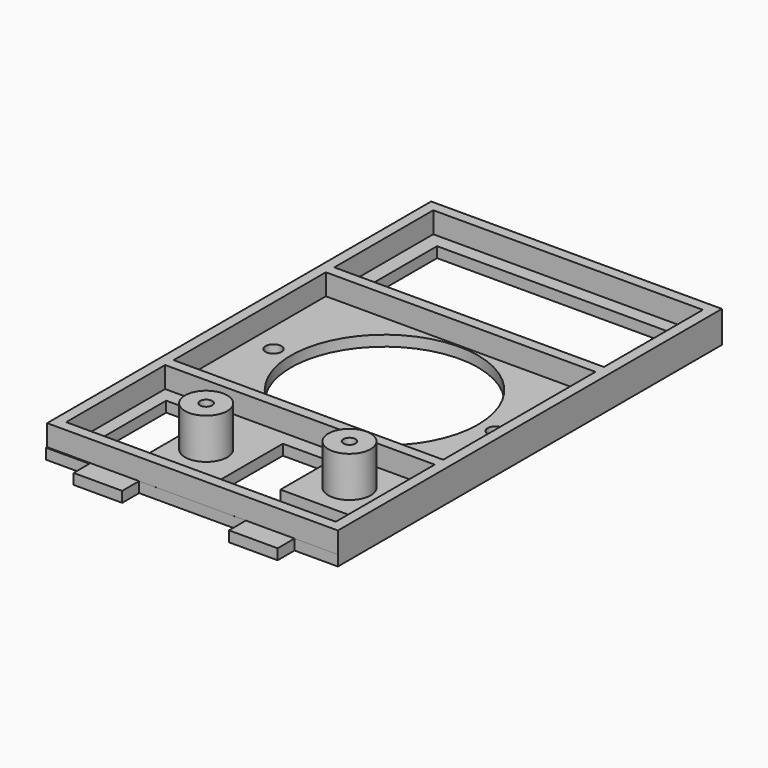
from build123d import *

# Parameters (mm, degrees)
SKETCH_R      = 17.7
SKETCH_R_2    = 1.5
PAD_DEPTH     = 2
SKETCH001_R   = 4
SKETCH001_R_2 = 1.15
PAD001_DEPTH  = 7.7
SKETCH002_W   = 55
SKETCH002_H   = 90.8
SKETCH002_W_2 = 51
SKETCH002_H_2 = 36
SKETCH002_H_3 = 23.4
PAD002_DEPTH  = 4
SKETCH003_W   = 45.416033
SKETCH003_H   = 18.722532
SKETCH003_W_2 = 8.527091
SKETCH003_H_2 = 17.424923
POCKET_DEPTH  = 2.001


with BuildPart() as part:
    # Sketch → Pad (new body)
    with BuildSketch(Plane.XY.offset(2)):
        Polygon((-19.3, 49.399), (-10.1, 49.399), (-10.1, 45.401), (10.1, 45.401), (10.1, 49.399), (19.3, 49.399), (19.3, 45.399), (27.5, 45.399), (27.5, -45.401), (19.3, -45.401), (19.3, -49.399), (10.1, -49.399), (10.1, -45.401), (-10.1, -45.401), (-10.1, -49.399), (-19.3, -49.399), (-19.3, -45.649884), (-27.5, -45.649884), (-27.5, 45.399), (-19.3, 45.399), align=None)
        Circle(SKETCH_R, mode=Mode.SUBTRACT)
        with Locations((-21, 0)):
            Circle(SKETCH_R_2, mode=Mode.SUBTRACT)
        with Locations((21, 0)):
            Circle(SKETCH_R_2, mode=Mode.SUBTRACT)
    extrude(amount=PAD_DEPTH)

    # Sketch001 → Pad001 (new body)
    with BuildSketch(Plane.XY.offset(4)):
        with Locations((15.45, -27.6)):
            Circle(SKETCH001_R)
        with Locations((15.45, -27.6)):
            Circle(SKETCH001_R_2, mode=Mode.SUBTRACT)
        with Locations((-8.7, -31.3)):
            Circle(SKETCH001_R)
        with Locations((-8.7, -31.3)):
            Circle(SKETCH001_R_2, mode=Mode.SUBTRACT)
    extrude(amount=PAD001_DEPTH)

    # Sketch002 → Pad002 (new body)
    with BuildSketch(Plane.XY.offset(4)):
        Rectangle(SKETCH002_W, SKETCH002_H)
        Rectangle(SKETCH002_W_2, SKETCH002_H_2, mode=Mode.SUBTRACT)
        with Locations((0, 31.7)):
            Rectangle(SKETCH002_W_2, SKETCH002_H_3, mode=Mode.SUBTRACT)
        with Locations((0, -31.7)):
            Rectangle(SKETCH002_W_2, SKETCH002_H_3, mode=Mode.SUBTRACT)
    extrude(amount=PAD002_DEPTH)

    # Sketch003 → Pocket (cut, through all)
    with BuildSketch(Plane.XY.offset(4)):
        with Locations((0.020594, 31.420495)):
            Rectangle(SKETCH003_W, SKETCH003_H)
        with Locations((-18.794618, -31.513151)):
            Rectangle(SKETCH003_W_2, SKETCH003_H_2)
        Polygon((-0.998942, -22.80069), (7.898897, -22.80069), (7.898897, -34.479092), (21.987135, -34.479092), (21.987135, -40.225613), (-0.998942, -40.225613), align=None)
    extrude(amount=-POCKET_DEPTH, mode=Mode.SUBTRACT)


solid = part.part
